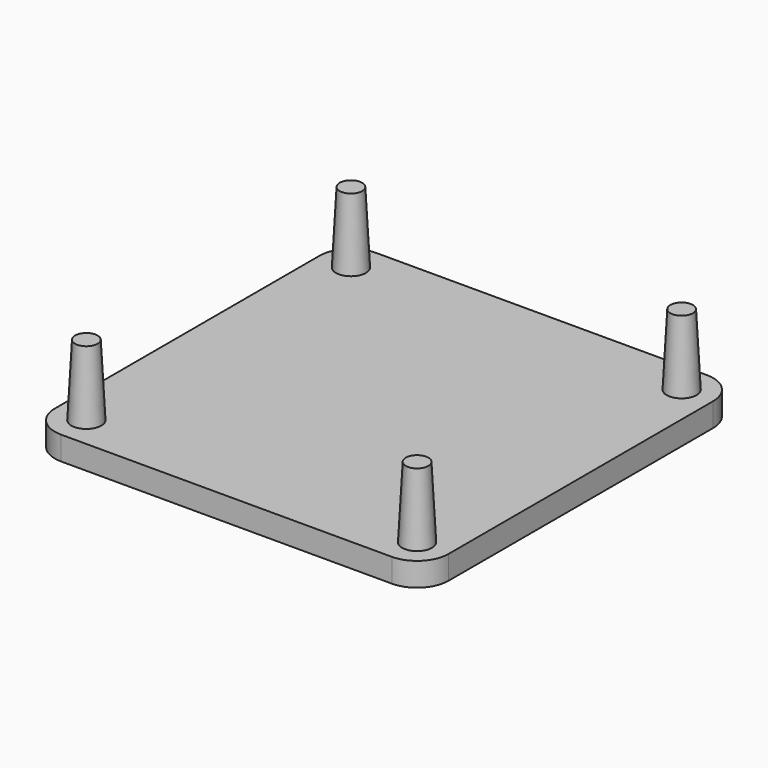
from build123d import *

# Parameters (mm, degrees)
F1_DEPTH = 3
F2_R     = 1.9
F3_DEPTH = 9
F3_TAPER = 3


with BuildPart() as f1:
    # F0 (on Top) → F1 (new body)
    with BuildSketch(Plane.XY):
        with BuildLine():
            Line((21, 25), (-21, 25))
            ThreePointArc((-21, 25), (-23.8284271247, 23.8284271247), (-25, 21))
            Line((-25, 21), (-25, -21))
            ThreePointArc((-25, -21), (-23.8284271247, -23.8284271247), (-21, -25))
            Line((-21, -25), (21, -25))
            ThreePointArc((21, -25), (23.8284271247, -23.8284271247), (25, -21))
            Line((25, -21), (25, 21))
            ThreePointArc((25, 21), (23.8284271247, 23.8284271247), (21, 25))
        make_face()
    extrude(amount=F1_DEPTH)

    # F2 (on face) → F3 (join)
    with BuildSketch(Plane.XY.offset(3)):
        with Locations((-21, 21)):
            Circle(F2_R)
        with Locations((21, 21)):
            Circle(F2_R)
        with Locations((21, -21)):
            Circle(F2_R)
        with Locations((-21, -21)):
            Circle(F2_R)
    extrude(amount=F3_DEPTH, taper=F3_TAPER)


solid = f1.part
